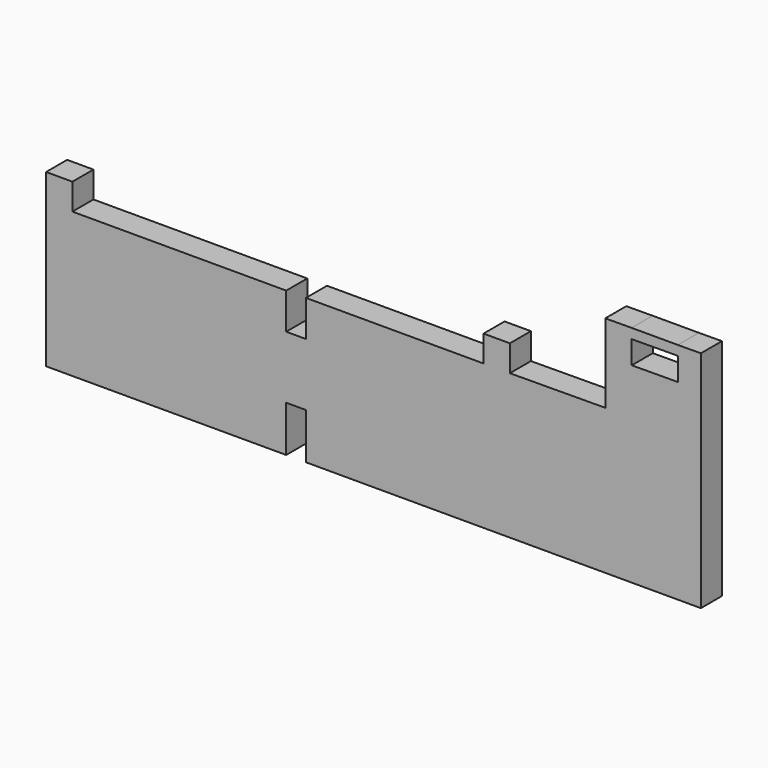
from build123d import *

# Parameters (mm, degrees)
F1_DEPTH = 10.16


with BuildPart() as f1:
    # F0 (on Front) → F1 (new body)
    with BuildSketch(Plane.XZ):
        Polygon((-134.797797, 11.368327), (12.51955, 11.368327), (17.712758, 11.368327), (17.712758, 98.023848), (8.808348, 97.969344), (8.831047, 94.261023), (8.831047, 85.363727), (-8.979842, 85.254705), (-9.034301, 94.151668), (-9.057669, 97.969344), (-19.210024, 97.9072), (-19.210024, 67.486234), (-56.051124, 67.260727), (-56.051124, 77.432118), (-66.21471, 77.432118), (-66.21471, 67.260727), (-134.797797, 67.260727), (-134.797797, 53.284746), (-142.41989, 53.284746), (-142.41989, 67.260727), (-224.99001, 67.260727), (-224.99001, 77.432118), (-235.15287, 77.432118), (-235.15287, 11.368327), (-142.41989, 11.368327), (-142.41989, 29.144347), (-134.797797, 29.144347), align=None)
        Polygon((8.831047, 94.261023), (8.808348, 97.969344), (-9.057669, 97.969344), (-9.034301, 94.151668), align=None)
    extrude(amount=F1_DEPTH)


solid = f1.part
